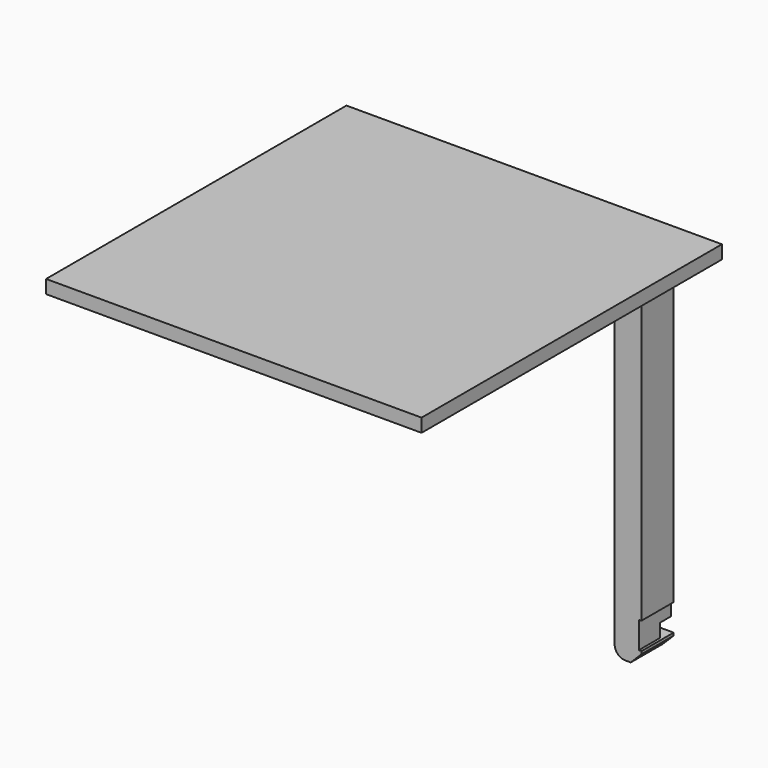
from build123d import *

# Parameters (mm, degrees)
F1_W      = 177.8
F1_H      = 177.8
F2_DEPTH  = 6.35
F3_W      = 12.7
F3_H      = 19.05
F4_DEPTH  = 165.1
F5_W      = 19.05
F5_H      = 12.7
F6_DEPTH  = 1.27
F7_SIZE   = 5.08
F8_R      = 5.08
F9_W      = 6.35
F9_H      = 6.35
F10_DEPTH = 25.4


with BuildPart() as f2:
    # F1 (on offset) → F2 (new body)
    with BuildSketch(Plane.XY.offset(177.8)):
        Rectangle(F1_W, F1_H)
    extrude(amount=F2_DEPTH)

    # F3 (on face) → F4 (join)
    with BuildSketch(Plane(origin=(0, 0, 177.8), x_dir=(1, 0, 0), z_dir=(0, 0, -1))):
        with Locations((64.77, -73.025)):
            Rectangle(F3_W, F3_H)
    extrude(amount=F4_DEPTH)

    # F5 (on face) → F6 (cut)
    with BuildSketch(Plane.YZ.offset(71.12)):
        with Locations((73.025, 25.4)):
            Rectangle(F5_W, F5_H)
    extrude(amount=-F6_DEPTH, mode=Mode.SUBTRACT)

    # F7
    f7_edges = [f2.edges().sort_by_distance(p)[0] for p in [
        (71.12, 73.025, 12.7),
    ]]
    chamfer(f7_edges, length=F7_SIZE)

    # F8
    f8_edges = [f2.edges().sort_by_distance(p)[0] for p in [
        (58.42, 73.025, 12.7),
    ]]
    fillet(f8_edges, radius=F8_R)

    # F9 (on face) → F10 (cut)
    with BuildSketch(Plane.YZ.offset(69.85)):
        with Locations((79.375, 22.225)):
            Rectangle(F9_W, F9_H)
    extrude(amount=-F10_DEPTH, mode=Mode.SUBTRACT)


solid = f2.part
